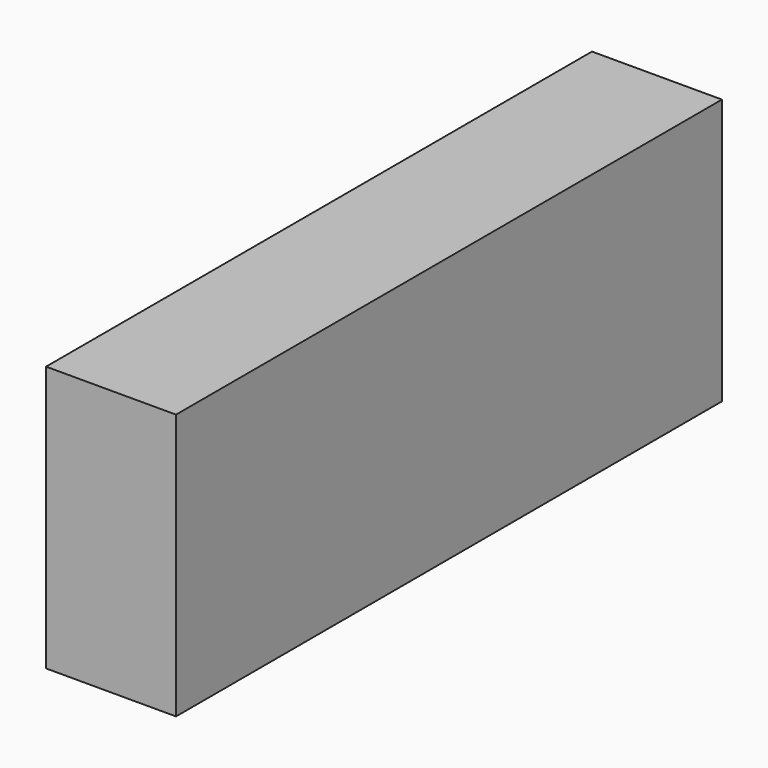
from build123d import *

# Parameters (mm, degrees)
F0_W     = 37.534952
F0_H     = 76.748446
F1_DEPTH = 197.104
F2_R     = 23.57647
F3_DEPTH = 196.342


with BuildPart() as f1:
    # F0 (on Front) → F1 (new body)
    with BuildSketch(Plane.XZ):
        with Locations((-18.767476, 38.374223)):
            Rectangle(F0_W, F0_H)
    extrude(amount=-F1_DEPTH)


with BuildPart() as f3:
    # F2 (on Front) → F3 (new body)
    with BuildSketch(Plane.XZ):
        with Locations((-66.800937, 83.592579)):
            Circle(F2_R)
    extrude(amount=-F3_DEPTH)


solid = f1.part
